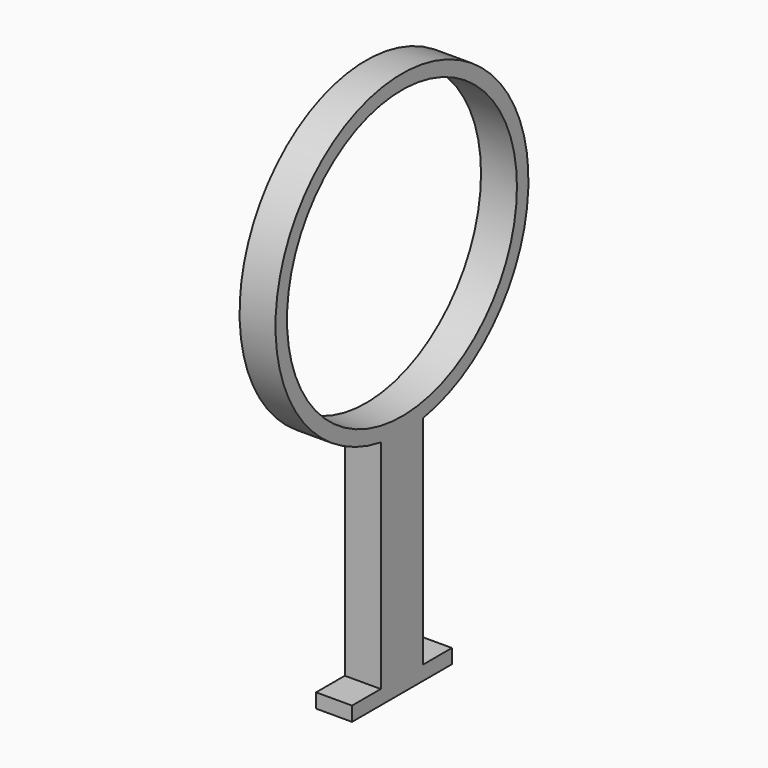
from build123d import *

# Parameters (mm, degrees)
F0_R     = 20
F1_DEPTH = 5
F2_W     = 5
F2_H     = 7.376282
F2_H_2   = 5
F3_DEPTH = 2


with BuildPart() as f1:
    # F0 (on Right) → F1 (new body)
    with BuildSketch(Plane.YZ):
        with BuildLine():
            Line((3.688141, 0), (3.688141, 32.210336))
            ThreePointArc((3.688141, 32.210336), (0, 75.898988), (-3.688141, 32.210336))
            Line((-3.688141, 32.210336), (-3.688141, 0))
            Line((-3.688141, 0), (3.688141, 0))
        make_face()
        with Locations((0, 53.898988)):
            Circle(F0_R, mode=Mode.SUBTRACT)
    extrude(amount=F1_DEPTH)

    # F2 (on Top) → F3 (join)
    with BuildSketch(Plane.XY):
        with Locations((2.5, 0)):
            Rectangle(F2_W, F2_H)
        with Locations((2.5, -6.188141)):
            Rectangle(F2_W, F2_H_2)
        with Locations((2.5, 6.188141)):
            Rectangle(F2_W, F2_H_2)
    extrude(amount=F3_DEPTH)


solid = f1.part
